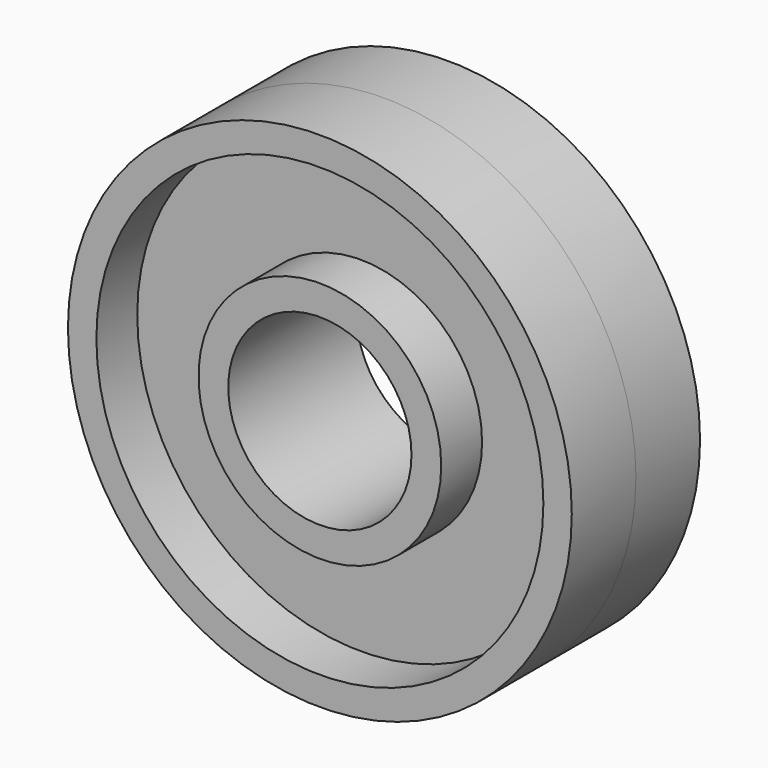
from build123d import *

# Parameters (mm, degrees)
F0_R     = 11
F0_R_2   = 9.758924
F0_R_3   = 5.298941
F0_R_4   = 4
F1_DEPTH = 3.5
F2_DEPTH = 1.27


with BuildPart() as f1:
    # F0 (on Front) → F1 (new body, symmetric)
    with BuildSketch(Plane.XZ):
        Circle(F0_R)
        Circle(F0_R_2, mode=Mode.SUBTRACT)
        Circle(F0_R_3)
        Circle(F0_R_4, mode=Mode.SUBTRACT)
    extrude(amount=F1_DEPTH, both=True)

    # F0 (on Front) → F2 (join, symmetric)
    with BuildSketch(Plane.XZ):
        Circle(F0_R_2)
        Circle(F0_R_3, mode=Mode.SUBTRACT)
    extrude(amount=F2_DEPTH, both=True)


solid = f1.part
